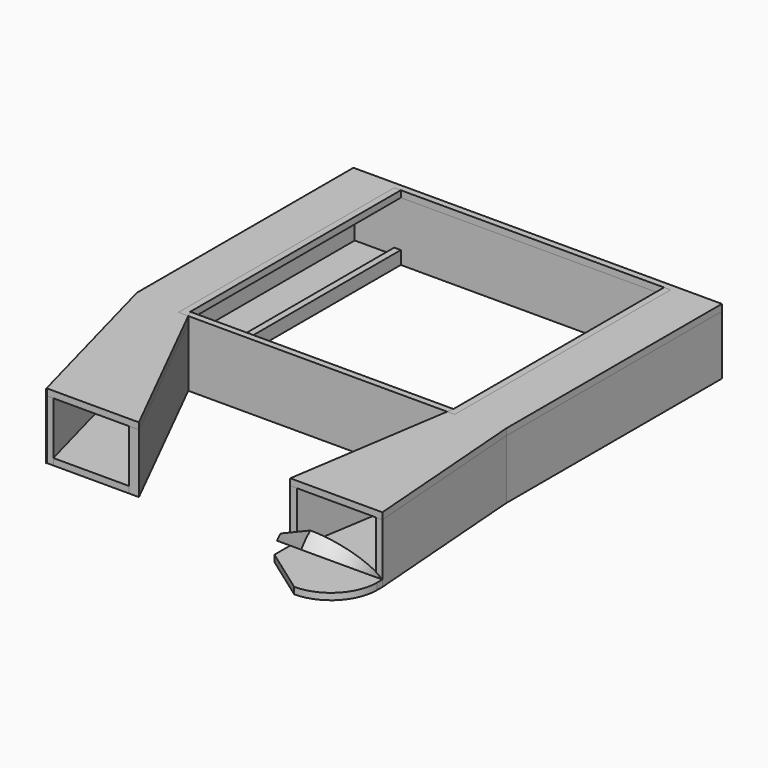
from build123d import *

# Parameters (mm, degrees)
F1_DEPTH       = 1
F2_DEPTH       = 2
F3_DEPTH       = 10
F4_START       = 7
F4_DEPTH       = 1
F5_START       = 8
F5_DEPTH       = 1
F0_W           = 12
F0_H           = 1
F0_W_2         = 1
F6_DEPTH       = 1
F7_ANGLE_START = 33.5916394761
F7_ANGLE       = 18.3474521861


with BuildPart() as f1:
    # F0 (on Top) → F1 (new body)
    with BuildSketch(Plane.XY):
        Polygon((-1, 40), (0, 40), (40, 40), (41, 40), (41, 41), (40, 41), (0, 41), (-1, 41), align=None)
        Polygon((0.5, -1), (0, 0), (0, 40), (-1, 40), (-1, -1), align=None)
        Polygon((-7, 40), (-1, 40), (-1, 41), (-8, 41), (-8, -0.1322605765), (-1, -26.1322605765), (-1, -26), (0, -26), (-7, 0), align=None)
        Polygon((-1, -1), (-1, 40), (-7, 40), (-7, 0), (0, -26), (11.5, -26), (4, -11), align=None)
        Polygon((47, 40), (41, 40), (41, -1), (37, -26), (49, -26), (47, 0), align=None)
        Polygon((40, 40), (40, 0), (39.8461538462, -1), (41, -1), (41, 40), align=None)
        Polygon((41, 41), (41, 40), (47, 40), (47, 0), (49, -26), (50, -26), (48, 0.0384048104), (48, 41), align=None)
        Polygon((40, 0), (0, 0), (0.5, -1), (39.8461538462, -1), align=None)
        Polygon((41, -1), (39.8461538462, -1), (36, -26), (37, -26), align=None)
        Polygon((5.5, -11), (0.5, -1), (-1, -1), (4, -11), align=None)
        Polygon((13, -26), (5.5, -11), (4, -11), (11.5, -26), (12, -26), align=None)
    extrude(amount=F1_DEPTH)

    # F0 (on Top) → F2 (join)
    with BuildSketch(Plane.XY):
        Polygon((0.5, -1), (0, 0), (0, 40), (-1, 40), (-1, -1), align=None)
        Polygon((40, 40), (40, 0), (39.8461538462, -1), (41, -1), (41, 40), align=None)
    extrude(amount=F2_DEPTH)


with BuildPart() as f3:
    # F0 (on Top) → F3 (new body)
    with BuildSketch(Plane.XY):
        Polygon((-7, 40), (-1, 40), (-1, 41), (-8, 41), (-8, -0.1322605765), (-1, -26.1322605765), (-1, -26), (0, -26), (-7, 0), align=None)
        Polygon((-1, 40), (0, 40), (40, 40), (41, 40), (41, 41), (40, 41), (0, 41), (-1, 41), align=None)
        Polygon((41, 41), (41, 40), (47, 40), (47, 0), (49, -26), (50, -26), (48, 0.0384048104), (48, 41), align=None)
    extrude(amount=F3_DEPTH)


with BuildPart() as f3b:
    # F0 (on Top) → F3, piece 2 (new body)
    with BuildSketch(Plane.XY):
        Polygon((40, 0), (0, 0), (0.5, -1), (39.8461538462, -1), align=None)
    extrude(amount=F3_DEPTH)


with BuildPart() as f3c:
    # F0 (on Top) → F3, piece 3 (new body)
    with BuildSketch(Plane.XY):
        Polygon((5.5, -11), (0.5, -1), (-1, -1), (4, -11), align=None)
        Polygon((13, -26), (5.5, -11), (4, -11), (11.5, -26), (12, -26), align=None)
    extrude(amount=F3_DEPTH)


with BuildPart() as f3d:
    # F0 (on Top) → F3, piece 4 (new body)
    with BuildSketch(Plane.XY):
        Polygon((41, -1), (39.8461538462, -1), (36, -26), (37, -26), align=None)
    extrude(amount=F3_DEPTH)


with BuildPart() as f4:
    # F2_face (on face) → F4 (new body)
    with BuildSketch(Plane(origin=(-0.495959596, 19.3777777778, 2), x_dir=(1, 0, 0), z_dir=(0, 0, 1)).offset(F4_START)):
        Polygon((0.995959596, -20.3777777778), (0.495959596, -19.3777777778), (0.495959596, 20.6222222222), (-0.504040404, 20.6222222222), (-0.504040404, -20.3777777778), align=None)
    extrude(amount=F4_DEPTH)


with BuildPart() as f4b:
    # F2_face (on face) → F4, piece 2 (new body)
    with BuildSketch(Plane(origin=(-0.495959596, 19.3777777778, 2), x_dir=(1, 0, 0), z_dir=(0, 0, 1)).offset(F4_START)):
        Polygon((40.495959596, 20.6222222222), (40.495959596, -19.3777777778), (40.3421134421, -20.3777777778), (41.495959596, -20.3777777778), (41.495959596, 20.6222222222), align=None)
    extrude(amount=F4_DEPTH)


with BuildPart() as f5:
    # F2_face1 (on face) → F5 (new body)
    with BuildSketch(Plane(origin=(21.1678733332, 4.5041468317, 1), x_dir=(1, 0, 0), z_dir=(0, 0, 1)).offset(F5_START)):
        Polygon((-22.1678733332, 35.4958531683), (-21.1678733332, 35.4958531683), (18.8321266668, 35.4958531683), (19.8321266668, 35.4958531683), (19.8321266668, -5.5041468317), (18.678280513, -5.5041468317), (14.8321266668, -30.5041468317), (28.8321266668, -30.5041468317), (26.8321266668, -4.4657420213), (26.8321266668, 36.4958531683), (-29.1678733332, 36.4958531683), (-29.1678733332, -4.6364074083), (-22.1678733332, -30.6364074083), (-22.1678733332, -30.5041468317), (-8.1678733332, -30.5041468317), (-20.6678733332, -5.5041468317), (-22.1678733332, -5.5041468317), align=None)
    extrude(amount=F5_DEPTH)


with BuildPart() as f6:
    # F0 (on Top) → F6 (new body)
    with BuildSketch(Plane.XY):
        with Locations((43, -26.5)):
            Rectangle(F0_W, F0_H)
        with Locations((36.5, -26.5)):
            Rectangle(F0_W_2, F0_H)
        Polygon((37, -27), (36, -27), (36, -29), (37, -28.4853821047), align=None)
        with Locations((49.5, -26.5)):
            Rectangle(F0_W_2, F0_H)
        with BuildLine():
            Line((49, -27), (37, -27))
            Line((37, -27), (37, -28.4853821047))
            Line((37, -28.4853821047), (43.3092967715, -32.9920226558))
            ThreePointArc((43.3092967715, -32.9920226558), (47.3506195323, -31.131840956), (49, -27))
        make_face()
        with BuildLine():
            Line((50, -27), (49, -27))
            ThreePointArc((49, -27), (47.3506195323, -31.131840956), (43.3092967715, -32.9920226558))
            Line((43.3092967715, -32.9920226558), (43, -34))
            ThreePointArc((43, -34), (47.9497474683, -31.9497474683), (50, -27))
        make_face()
        Polygon((37, -28.4853821047), (36, -29), (43, -34), (43.3092967715, -32.9920226558), align=None)
    extrude(amount=F6_DEPTH)


with BuildPart() as f7:
    # F6_face (on face) → F7 (revolve)
    with BuildSketch(Plane(origin=(43.2917204613, -29.2087406355, 1), x_dir=(1, 0, 0), z_dir=(0, 0, 1)), mode=Mode.PRIVATE) as f7_sk:
        with BuildLine():
            Line((-7.2917204613, 3.2087406355), (-7.2917204613, 0.2087406355))
            Line((-7.2917204613, 0.2087406355), (-0.2917204613, -4.7912593645))
            ThreePointArc((-0.2917204613, -4.7912593645), (4.658027007, -2.7410068329), (6.7082795387, 2.2087406355))
            Line((6.7082795387, 2.2087406355), (6.7082795387, 3.2087406355))
            Line((6.7082795387, 3.2087406355), (-7.2917204613, 3.2087406355))
        make_face()
    revolve(f7_sk.sketch.rotate(Axis((43, -26, 1), (-1, 0, 0)), F7_ANGLE_START), axis=Axis((43, -26, 1), (-1, 0, 0)), revolution_arc=F7_ANGLE)


solid = Compound([f1.part, f3.part, f3b.part, f3c.part, f3d.part, f4.part, f4b.part, f5.part, f6.part, f7.part])
